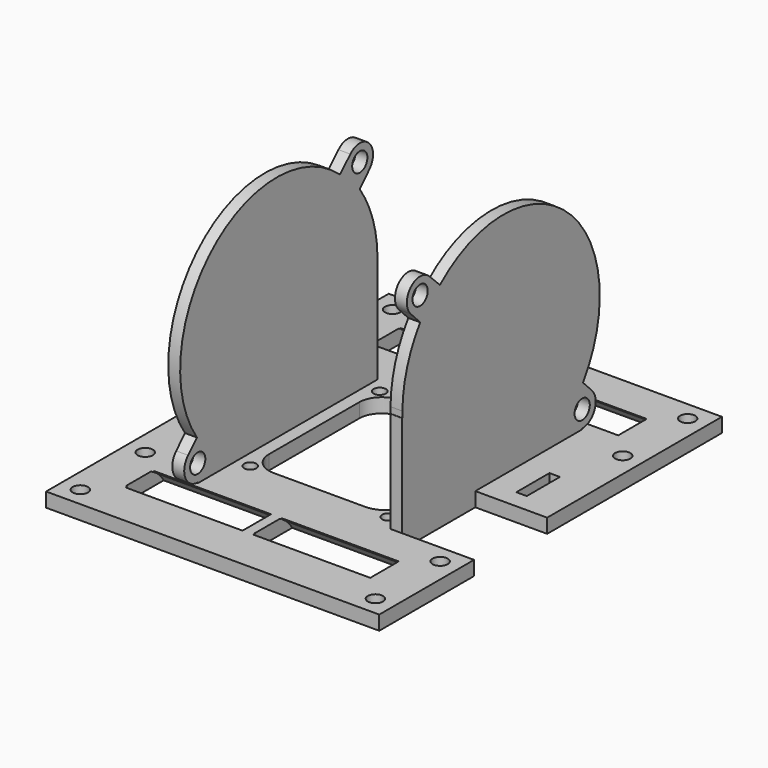
from build123d import *

# Parameters (mm, degrees)
CYLINDER003_R           = 7.75
CYLINDER003_DEPTH       = 24.5
CYLINDER003_PITCH_ANGLE = 90
CYLINDER002_R           = 7.75
CYLINDER002_DEPTH       = 24.5
CYLINDER002_PITCH_ANGLE = 90
CYLINDER001_R           = 7.75
CYLINDER001_DEPTH       = 24.5
CYLINDER001_PITCH_ANGLE = 90
CYLINDER_R              = 7.75
CYLINDER_DEPTH          = 24.5
CYLINDER_PITCH_ANGLE    = 90
SKETCH_W                = 70
SKETCH_H                = 90
PAD_DEPTH               = 3
SKETCH001_R             = 1.6
SKETCH001_W             = 24.556784
SKETCH001_H             = 7.470249
SKETCH001_H_2           = 7.470248
POCKET_DEPTH            = 3.001
SKETCH002_R             = 1.3
POCKET001_DEPTH         = 5
SKETCH003_W             = 20
SKETCH003_H             = 19.2
SKETCH003_W_2           = 2.2
SKETCH003_H_2           = 8.7
POCKET002_DEPTH         = 5
SKETCH004_W             = 2.5
SKETCH004_H             = 53.716673
SKETCH004_H_2           = 52.48084
PAD001_DEPTH            = 50
SKETCH005_R             = 2
POCKET003_DEPTH         = 5
SKETCH006_R             = 2
POCKET004_DEPTH         = 5


with BuildPart() as cilindro003:
    # Cylinder003 → Cylinder003 (new body)
    with BuildSketch(Plane.XY):
        Circle(CYLINDER003_R)
    extrude(amount=CYLINDER003_DEPTH)


with BuildPart() as cilindro003_1:
    # Cylinder003 pitch: moved
    add(cilindro003.part.rotate(Axis((0, 0, 0), (0, 1, 0)), CYLINDER003_PITCH_ANGLE))


with BuildPart() as cilindro003_2:
    # Cylinder003 placement: moved
    add(cilindro003_1.part.moved(Location((1, 33, -4))))


with BuildPart() as cilindro002:
    # Cylinder002 → Cylinder002 (new body)
    with BuildSketch(Plane.XY):
        Circle(CYLINDER002_R)
    extrude(amount=CYLINDER002_DEPTH)


with BuildPart() as cilindro002_1:
    # Cylinder002 pitch: moved
    add(cilindro002.part.rotate(Axis((0, 0, 0), (0, 1, 0)), CYLINDER002_PITCH_ANGLE))


with BuildPart() as cilindro002_2:
    # Cylinder002 placement: moved
    add(cilindro002_1.part.moved(Location((-26, 33, -4))))


with BuildPart() as cilindro001:
    # Cylinder001 → Cylinder001 (new body)
    with BuildSketch(Plane.XY):
        Circle(CYLINDER001_R)
    extrude(amount=CYLINDER001_DEPTH)


with BuildPart() as cilindro001_1:
    # Cylinder001 pitch: moved
    add(cilindro001.part.rotate(Axis((0, 0, 0), (0, 1, 0)), CYLINDER001_PITCH_ANGLE))


with BuildPart() as cilindro001_2:
    # Cylinder001 placement: moved
    add(cilindro001_1.part.moved(Location((1, -32, -4))))


with BuildPart() as cilindro:
    # Cylinder → Cylinder (new body)
    with BuildSketch(Plane.XY):
        Circle(CYLINDER_R)
    extrude(amount=CYLINDER_DEPTH)


with BuildPart() as cilindro_1:
    # Cylinder pitch: moved
    add(cilindro.part.rotate(Axis((0, 0, 0), (0, 1, 0)), CYLINDER_PITCH_ANGLE))


with BuildPart() as cilindro_2:
    # Cylinder placement: moved
    add(cilindro_1.part.moved(Location((-26, -32, -4))))


with BuildPart() as pocket004:
    # Sketch → Pad (new body)
    with BuildSketch(Plane.XY):
        Rectangle(SKETCH_W, SKETCH_H)
    extrude(amount=PAD_DEPTH)

    # Sketch001 → Pocket (cut, through all)
    with BuildSketch(Plane.XY.offset(3)):
        with Locations((-31, 41)):
            Circle(SKETCH001_R)
        with Locations((31, 40.99757)):
            Circle(SKETCH001_R)
        with Locations((30.962712, 23.997611)):
            Circle(SKETCH001_R)
        with Locations((-30.962712, -23.997611)):
            Circle(SKETCH001_R)
        with Locations((-31, -40.99757)):
            Circle(SKETCH001_R)
        with Locations((31, -24.002375)):
            Circle(SKETCH001_R)
        with Locations((31, -41)):
            Circle(SKETCH001_R)
        with Locations((-31, 24.002375)):
            Circle(SKETCH001_R)
        with Locations((-13.560973, 32.952)):
            Rectangle(SKETCH001_W, SKETCH001_H)
        with Locations((13.560973, 32.952)):
            Rectangle(SKETCH001_W, SKETCH001_H)
        with Locations((-13.416692, -31.992343)):
            Rectangle(SKETCH001_W, SKETCH001_H_2)
        with Locations((13.416692, -31.992343)):
            Rectangle(SKETCH001_W, SKETCH001_H_2)
    extrude(amount=-POCKET_DEPTH, mode=Mode.SUBTRACT)

    # Cut: cut Cilindro
    add(cilindro_2.part, mode=Mode.SUBTRACT)

    # Cut001: cut Cilindro001
    add(cilindro001_2.part, mode=Mode.SUBTRACT)

    # Cut002: cut Cilindro002
    add(cilindro002_2.part, mode=Mode.SUBTRACT)

    # Cut003: cut Cilindro003
    add(cilindro003_2.part, mode=Mode.SUBTRACT)


with BuildPart() as pocket004_1:
    # Cut003 placement: moved
    add(pocket004.part.moved(Location((-2, 0, -3))))

    # Sketch002 → Pocket001 (cut)
    with BuildSketch(Plane(origin=(-2, 0, 0), x_dir=(1, 0, 0), z_dir=(0, 0, 1))):
        with Locations((-14.5, 17)):
            Circle(SKETCH002_R)
        with Locations((14.5, 17)):
            Circle(SKETCH002_R)
        with Locations((-14.5, -17)):
            Circle(SKETCH002_R)
        with Locations((14.5, -17)):
            Circle(SKETCH002_R)
        with BuildLine():
            Line((-14.7, 11.879998), (-14.719215, -11.80326))
            ThreePointArc((-14.719215, -11.80326), (-13.340801, -15.147756), (-10.003866, -16.544373))
            Line((-10.003866, -16.544373), (9.305833, -16.544373))
            ThreePointArc((9.305833, -16.544373), (12.986254, -15.019893), (14.510734, -11.339472))
            Line((14.510734, 11.504763), (14.510734, -11.339472))
            ThreePointArc((14.510734, 11.504763), (13.274823, 15.056005), (9.830535, 16.564538))
            Line((-9.994001, 16.589889), (9.830535, 16.564538))
            ThreePointArc((-9.994001, 16.589889), (-13.324786, 15.211921), (-14.7, 11.879998))
        make_face()
    extrude(amount=-POCKET001_DEPTH, mode=Mode.SUBTRACT)

    # Sketch003 → Pocket002 (cut)
    with BuildSketch(Plane(origin=(-2, 0, -3), x_dir=(1, 0, 0), z_dir=(0, 0, -1))):
        with Locations((29.9, 10.5)):
            Rectangle(SKETCH003_W, SKETCH003_H)
        with Locations((26.5, -7.35)):
            Rectangle(SKETCH003_W_2, SKETCH003_H_2)
        with Locations((-26.5, 7.35)):
            Rectangle(SKETCH003_W_2, SKETCH003_H_2)
        with Locations((-29.9, -10.5)):
            Rectangle(SKETCH003_W, SKETCH003_H)
    extrude(amount=-POCKET002_DEPTH, mode=Mode.SUBTRACT)

    # Sketch004 → Pad001 (new body)
    with BuildSketch(Plane(origin=(-2, 0, 0), x_dir=(1, 0, 0), z_dir=(0, 0, 1))):
        with Locations((-18.65, -6.758337)):
            Rectangle(SKETCH004_W, SKETCH004_H)
        with Locations((18.65, 6.14042)):
            Rectangle(SKETCH004_W, SKETCH004_H_2)
    extrude(amount=PAD001_DEPTH)

    # Sketch005 → Pocket003 (cut)
    with BuildSketch(Plane(origin=(15.4, 0, -3), x_dir=(0, -1, 0), z_dir=(-1, 0, 0))):
        with Locations((-27.176525, 6.711402)):
            Circle(SKETCH005_R)
        with Locations((15.389979, 45.131245)):
            Circle(SKETCH005_R)
        with BuildLine():
            ThreePointArc((10.192183, 44.909271), (-23.272878, 44.760821), (-27.383847, 11.548891))
            Line((-27.383847, 11.548891), (-29.700115, 9.200952))
            ThreePointArc((-29.700115, 9.200952), (-30.439753, 5.326589), (-27.139361, 3.16669))
            Line((-27.139361, 3.16669), (-27.139361, 3))
            Line((-27.139361, 3), (-35.173277, 3))
            Line((-35.173277, 3), (-35.173277, 58.633105))
            Line((-1.788184, 58.633105), (-35.173277, 58.633105))
            Line((28.415094, 58.633105), (-1.788184, 58.633105))
            Line((28.415094, 24.297183), (28.415094, 58.633105))
            Line((20.052043, 24.297183), (28.415094, 24.297183))
            Line((20.038811, 25.58395), (20.052043, 24.297183))
            ThreePointArc((20.038811, 25.58395), (18.804072, 33.19525), (15.373691, 40.10097))
            Line((15.373691, 40.10097), (17.838895, 42.64968))
            ThreePointArc((17.838895, 42.64968), (17.859709, 47.592096), (12.917249, 47.589082))
            Line((10.192183, 44.909271), (12.917249, 47.589082))
        make_face()
    extrude(amount=-POCKET003_DEPTH, mode=Mode.SUBTRACT)

    # Sketch006 → Pocket004 (cut)
    with BuildSketch(Plane(origin=(-19.4, 0, -3), x_dir=(0, 1, 0), z_dir=(1, 0, 0))):
        with Locations((-27.176525, 6.711402)):
            Circle(SKETCH006_R)
        with Locations((15.389979, 45.131245)):
            Circle(SKETCH006_R)
        with BuildLine():
            ThreePointArc((10.192183, 44.909271), (-23.272878, 44.760821), (-27.383847, 11.548891))
            Line((-27.383847, 11.548891), (-29.700115, 9.200952))
            ThreePointArc((-29.700115, 9.200952), (-30.439753, 5.326589), (-27.139361, 3.16669))
            Line((-27.139361, 3.16669), (-27.139361, 3))
            Line((-27.139361, 3), (-35.173277, 3))
            Line((-35.173277, 3), (-35.173277, 58.633105))
            Line((-1.788184, 58.633105), (-35.173277, 58.633105))
            Line((28.415094, 58.633105), (-1.788184, 58.633105))
            Line((28.415094, 24.297183), (28.415094, 58.633105))
            Line((20.052043, 24.297183), (28.415094, 24.297183))
            Line((20.038811, 25.58395), (20.052043, 24.297183))
            ThreePointArc((20.038811, 25.58395), (18.804072, 33.19525), (15.373691, 40.10097))
            Line((15.373691, 40.10097), (17.838895, 42.64968))
            ThreePointArc((17.838895, 42.64968), (17.859709, 47.592096), (12.917249, 47.589082))
            Line((10.192183, 44.909271), (12.917249, 47.589082))
        make_face()
    extrude(amount=-POCKET004_DEPTH, mode=Mode.SUBTRACT)


solid = pocket004_1.part
